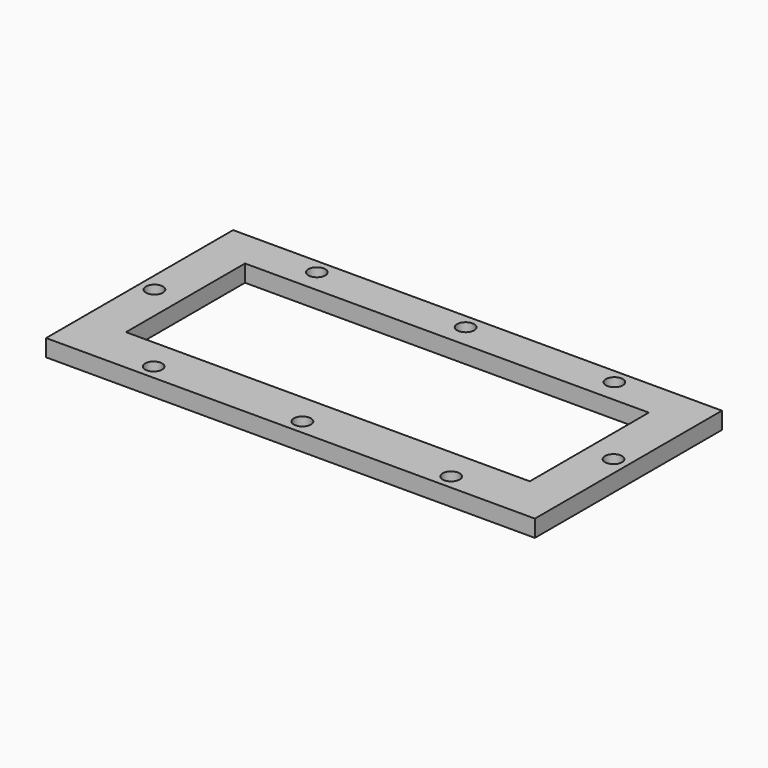
from build123d import *

# Parameters (mm, degrees)
SKETCH_W     = 115
SKETCH_H     = 55
SKETCH_W_2   = 95
SKETCH_H_2   = 35
PAD_DEPTH    = 4
SKETCH001_R  = 2
POCKET_DEPTH = 4.001


with BuildPart() as part:
    # Sketch → Pad (new body)
    with BuildSketch(Plane.XY):
        with Locations((47.5, 16.5)):
            Rectangle(SKETCH_W, SKETCH_H)
        with Locations((47.5, 17.5)):
            Rectangle(SKETCH_W_2, SKETCH_H_2, mode=Mode.SUBTRACT)
    extrude(amount=PAD_DEPTH)

    # Sketch001 → Pocket (cut, through all)
    with BuildSketch(Plane.XY.offset(4)):
        with Locations((-6.5, 16.5)):
            Circle(SKETCH001_R)
        with Locations((12.5, 40.5)):
            Circle(SKETCH001_R)
        with Locations((47.5, 40.5)):
            Circle(SKETCH001_R)
        with Locations((82.5, 40.5)):
            Circle(SKETCH001_R)
        with Locations((101.5, 16.5)):
            Circle(SKETCH001_R)
        with Locations((82.5, -7.5)):
            Circle(SKETCH001_R)
        with Locations((47.5, -7.5)):
            Circle(SKETCH001_R)
        with Locations((12.5, -7.5)):
            Circle(SKETCH001_R)
    extrude(amount=-POCKET_DEPTH, mode=Mode.SUBTRACT)


solid = part.part
